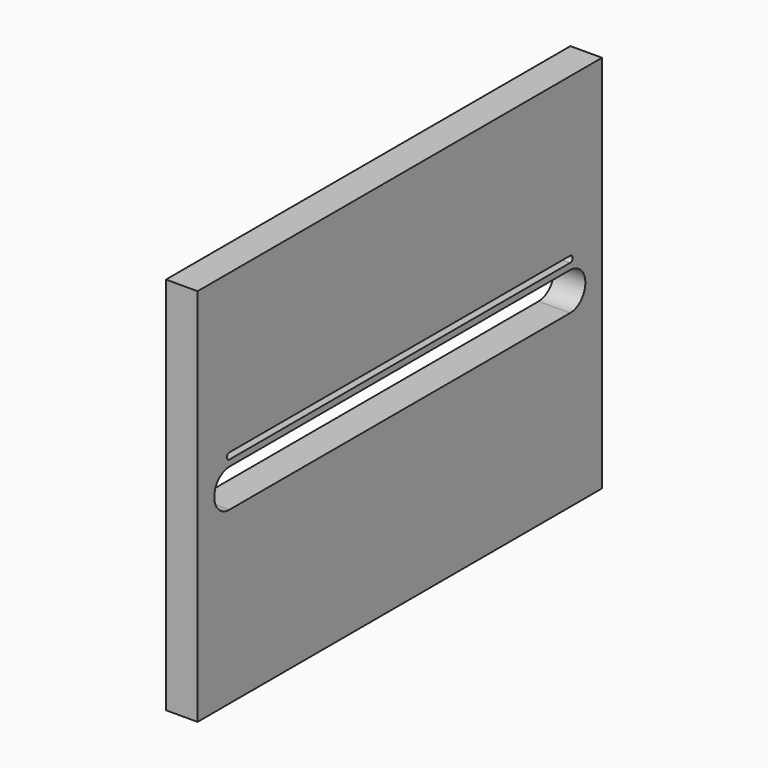
from build123d import *

# Parameters (mm, degrees)
F0_W     = 101.6
F0_H     = 76.2
F1_DEPTH = 6.35
F3_DEPTH = 25.4
F5_DEPTH = 25.4


with BuildPart() as f1:
    # F0 (on Right) → F1 (new body)
    with BuildSketch(Plane.YZ):
        Rectangle(F0_W, F0_H)
    extrude(amount=F1_DEPTH)

    # F2 (on face) → F3 (cut)
    with BuildSketch(Plane.YZ.offset(6.35)):
        with BuildLine():
            Line((42.798216, 3.81), (-42.798216, 3.81))
            ThreePointArc((-42.798216, 3.81), (-46.608216, 0), (-42.798216, -3.81))
            Line((-42.798216, -3.81), (42.798216, -3.81))
            ThreePointArc((42.798216, -3.81), (46.608216, 0), (42.798216, 3.81))
        make_face()
    extrude(amount=-F3_DEPTH, mode=Mode.SUBTRACT)

    # F4 (on face) → F5 (cut)
    with BuildSketch(Plane.YZ.offset(6.35)):
        with BuildLine():
            Line((-42.798216, 5.068473), (42.798216, 5.068473))
            ThreePointArc((42.798216, 5.068473), (43.433216, 5.703473), (42.798216, 6.338473))
            Line((42.798216, 6.338473), (-42.798216, 6.338473))
            ThreePointArc((-42.798216, 6.338473), (-43.433216, 5.703473), (-42.798216, 5.068473))
        make_face()
    extrude(amount=-F5_DEPTH, mode=Mode.SUBTRACT)


solid = f1.part
